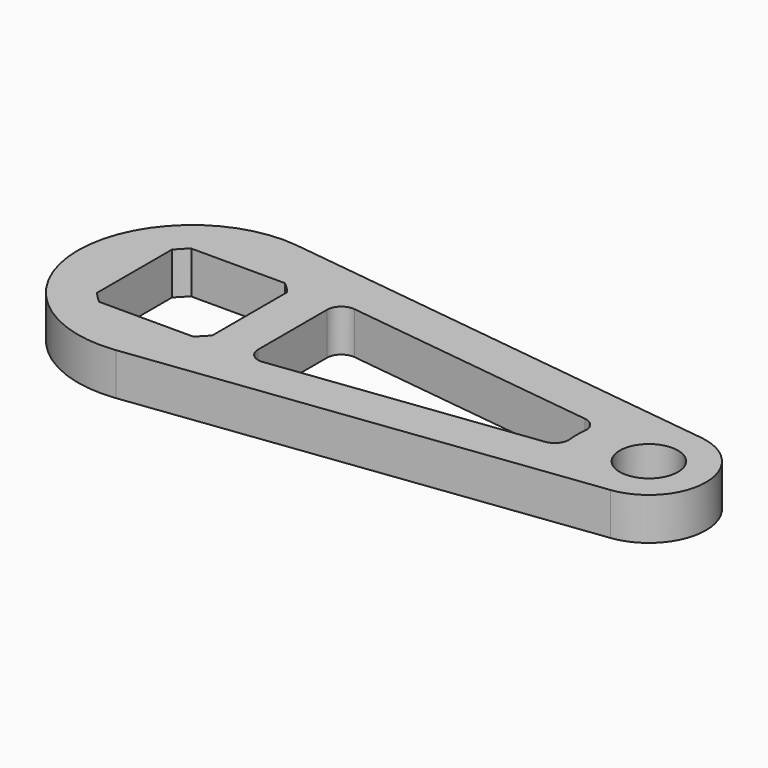
from build123d import *

# Parameters (mm, degrees)
F0_R     = 6.477
F1_DEPTH = 9.398
F2_R     = 3.175


with BuildPart() as f1:
    # F0 (on Top) → F1 (new body)
    with BuildSketch(Plane.XY):
        with BuildLine():
            Line((103.1875, 12.600391), (3.175, 25.200781))
            ThreePointArc((3.175, 25.200781), (-25.4, 0), (3.175, -25.200781))
            Line((3.175, -25.200781), (103.1875, -12.600391))
            ThreePointArc((103.1875, -12.600391), (114.3, 0), (103.1875, 12.600391))
        make_face()
        with BuildLine():
            Line((-10.394622, 12.827), (10.394622, 12.827))
            ThreePointArc((10.394622, 12.827), (11.674333, 11.674333), (12.827, 10.394622))
            Line((12.827, 10.394622), (12.827, -10.394622))
            ThreePointArc((12.827, -10.394622), (11.674333, -11.674333), (10.394622, -12.827))
            Line((10.394622, -12.827), (-10.394622, -12.827))
            ThreePointArc((-10.394622, -12.827), (-11.674333, -11.674333), (-12.827, -10.394622))
            Line((-12.827, -10.394622), (-12.827, 10.394622))
            ThreePointArc((-12.827, 10.394622), (-11.674333, 11.674333), (-10.394622, 12.827))
        make_face(mode=Mode.SUBTRACT)
        with BuildLine():
            Line((22.352, -13.184409), (22.352, 13.184409))
            Line((22.352, 13.184409), (86.43603, 5.11058))
            ThreePointArc((86.43603, 5.11058), (85.598, 0), (86.43603, -5.11058))
            Line((86.43603, -5.11058), (22.352, -13.184409))
        make_face(mode=Mode.SUBTRACT)
        with Locations((101.6, 0)):
            Circle(F0_R, mode=Mode.SUBTRACT)
    extrude(amount=F1_DEPTH)

    # F2
    f2_edges = [f1.edges().sort_by_distance(p)[0] for p in [
        (22.352, 13.184409, 4.699),
        (22.352, -13.184409, 4.699),
        (86.43603, 5.11058, 4.699),
        (86.43603, -5.11058, 4.699),
    ]]
    fillet(f2_edges, radius=F2_R)


solid = f1.part
